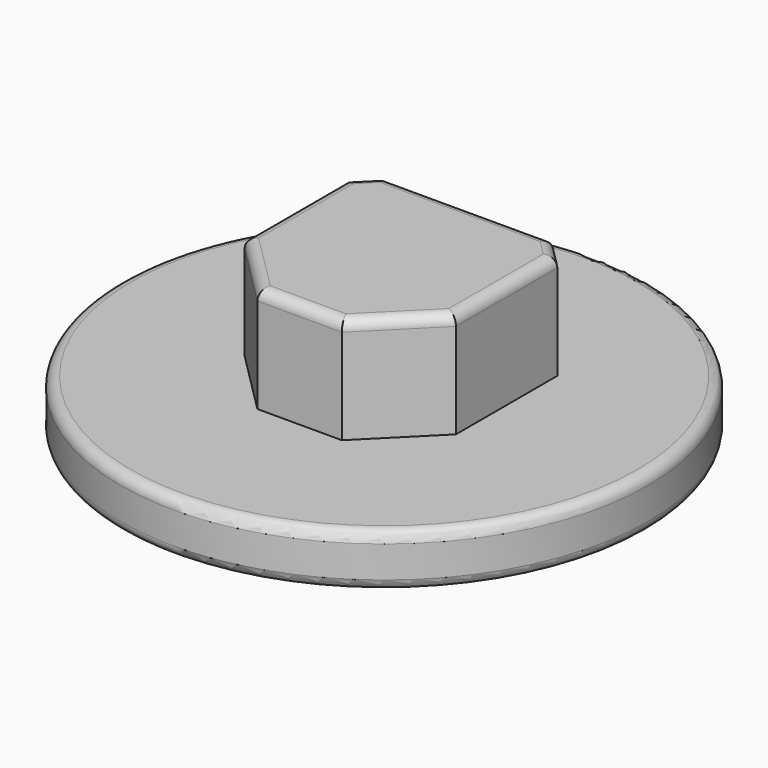
from build123d import *

# Parameters (mm, degrees)
BOX001_W        = 10.2
BOX001_H        = 10.2
BOX001_DEPTH    = 12.5
CHAMFER002_SIZE = 2
BOX_W           = 20
BOX_H           = 20
BOX_DEPTH       = 10
CHAMFER_SIZE    = 6
CHAMFER001_SIZE = 2
FILLET001_R     = 1
CYLINDER_R      = 25
CYLINDER_DEPTH  = 5
FILLET_R        = 1
FILLET002_R     = 1


with BuildPart() as chamfered_hole:
    # Box001 → Box001 (new body)
    with BuildSketch(Plane(origin=(-5.1, -5.1, 0), x_dir=(1, 0, 0), z_dir=(0, 0, 1))):
        with Locations((5.1, 5.1)):
            Rectangle(BOX001_W, BOX001_H)
    extrude(amount=BOX001_DEPTH)

    # Chamfer002
    chamfer002_edges = [chamfered_hole.edges().sort_by_distance(p)[0] for p in [
        (-5.1, -5.1, 6.25),
        (-5.1, 5.1, 6.25),
        (5.1, -5.1, 6.25),
        (5.1, 5.1, 6.25),
    ]]
    chamfer(chamfer002_edges, length=CHAMFER002_SIZE)


with BuildPart() as fillet001:
    # Box → Box (new body)
    with BuildSketch(Plane(origin=(-10, -10, 5), x_dir=(1, 0, 0), z_dir=(0, 0, 1))):
        with Locations((10, 10)):
            Rectangle(BOX_W, BOX_H)
    extrude(amount=BOX_DEPTH)

    # Chamfer
    chamfer_edges = [fillet001.edges().sort_by_distance(p)[0] for p in [
        (-10, -10, 10),
        (10, -10, 10),
    ]]
    chamfer(chamfer_edges, length=CHAMFER_SIZE)

    # Chamfer001
    chamfer001_edges = [fillet001.edges().sort_by_distance(p)[0] for p in [
        (-10, 10, 10),
        (10, 10, 10),
    ]]
    chamfer(chamfer001_edges, length=CHAMFER001_SIZE)

    # Fillet001
    fillet001_edges = [fillet001.edges().sort_by_distance(p)[0] for p in [
        (-10, 2, 15),
        (-9, 9, 15),
        (-7, -7, 15),
        (0, 10, 15),
        (0, -10, 15),
        (9, 9, 15),
        (7, -7, 15),
        (10, 2, 15),
    ]]
    fillet(fillet001_edges, radius=FILLET001_R)


with BuildPart() as print2_side_with_support:
    # Cylinder → Cylinder (new body)
    with BuildSketch(Plane.XY):
        Circle(CYLINDER_R)
    extrude(amount=CYLINDER_DEPTH)

    # Fillet
    fillet_edges = [print2_side_with_support.edges().sort_by_distance(p)[0] for p in [
        (-25, 0, 5),
        (-25, 0, 0),
    ]]
    fillet(fillet_edges, radius=FILLET_R)

    # Fusion: union Fillet001
    add(fillet001.part)

    # Cut: cut Chamfered hole
    add(chamfered_hole.part, mode=Mode.SUBTRACT)

    # Fillet002
    fillet002_edges = [print2_side_with_support.edges().sort_by_distance(p)[0] for p in [
        (0, -5.1, 0),
        (4.1, -4.1, 0),
        (5.1, 0, 0),
        (4.1, 4.1, 0),
        (0, 5.1, 0),
        (-4.1, 4.1, 0),
        (-5.1, 0, 0),
        (-4.1, -4.1, 0),
    ]]
    fillet(fillet002_edges, radius=FILLET002_R)


solid = print2_side_with_support.part
